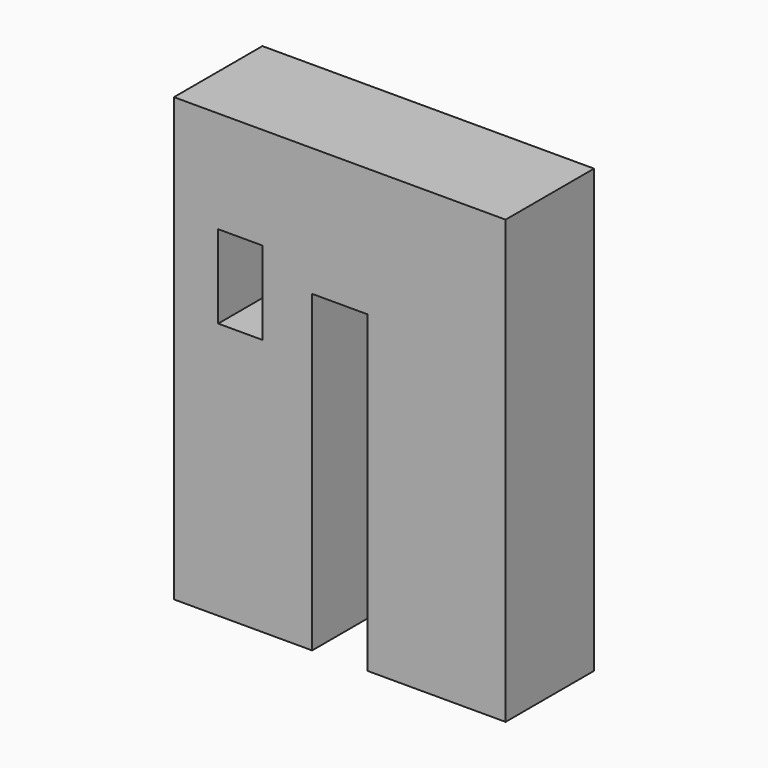
from build123d import *

# Parameters (mm, degrees)
F0_W     = 10.16
F0_H     = 6.35
F0_H_2   = 6.0613639653
F0_H_3   = 6.9705683272
F0_H_4   = 6.5159656806
F0_H_5   = 6.061363034
F0_H_6   = 3.0306819826
F0_H_7   = 3.485283698
F1_DEPTH = 25.4


with BuildPart() as f1:
    # F0 (on Front) → F1 (new body)
    with BuildSketch(Plane.XZ):
        Polygon((6.35, 45.6081529319), (0, 45.6081529319), (-6.35, 45.6081529319), (-6.35, 16.1383803934), (6.35, 16.1383803934), align=None)
        Polygon((-6.35, 16.1383803934), (-6.35, 45.6081529319), (-27.94, 45.6081529319), (-27.94, 39.2581529319), (-38.1, 39.2581529319), (-38.1, 22.1997443587), (-27.94, 22.1997443587), (-17.78, 22.1997443587), (-17.78, 16.1383803934), (-17.78, 10.0770173594), (-17.78, 3.1064490322), (-27.94, 3.1064490322), (-38.1, 3.1064490322), (-38.1, -55.9918470681), (-6.35, -55.9918470681), align=None)
        Polygon((19.05, 45.6081529319), (6.35, 45.6081529319), (6.35, 16.1383803934), (6.35, -55.9918470681), (38.1, -55.9918470681), (38.1, 3.1064490322), (27.94, 3.1064490322), (27.94, 9.6224147128), (27.94, 12.6530966954), (27.94, 16.1383803934), (27.94, 22.1997443587), (38.1, 22.1997443587), (38.1, 39.2581529319), (27.94, 39.2581529319), (27.94, 45.6081529319), align=None)
        with Locations((-33.02, 42.4331529319)):
            Rectangle(F0_W, F0_H)
        Polygon((36.83, 45.6081529319), (27.94, 45.6081529319), (27.94, 39.2581529319), (38.1, 39.2581529319), (38.1, 45.6081529319), align=None)
        with Locations((-33.02, 19.169062376)):
            Rectangle(F0_W, F0_H_2)
        with Locations((-33.02, 6.5917331958)):
            Rectangle(F0_W, F0_H_3)
        with Locations((33.02, 6.3644318725)):
            Rectangle(F0_W, F0_H_4)
        with Locations((-33.02, 13.1076988764)):
            Rectangle(F0_W, F0_H_5)
        with Locations((33.02, 19.169062376)):
            Rectangle(F0_W, F0_H_2)
        with Locations((33.02, 11.1377557041)):
            Rectangle(F0_W, F0_H_6)
        with Locations((33.02, 14.3957385444)):
            Rectangle(F0_W, F0_H_7)
    extrude(amount=-F1_DEPTH)


solid = f1.part
